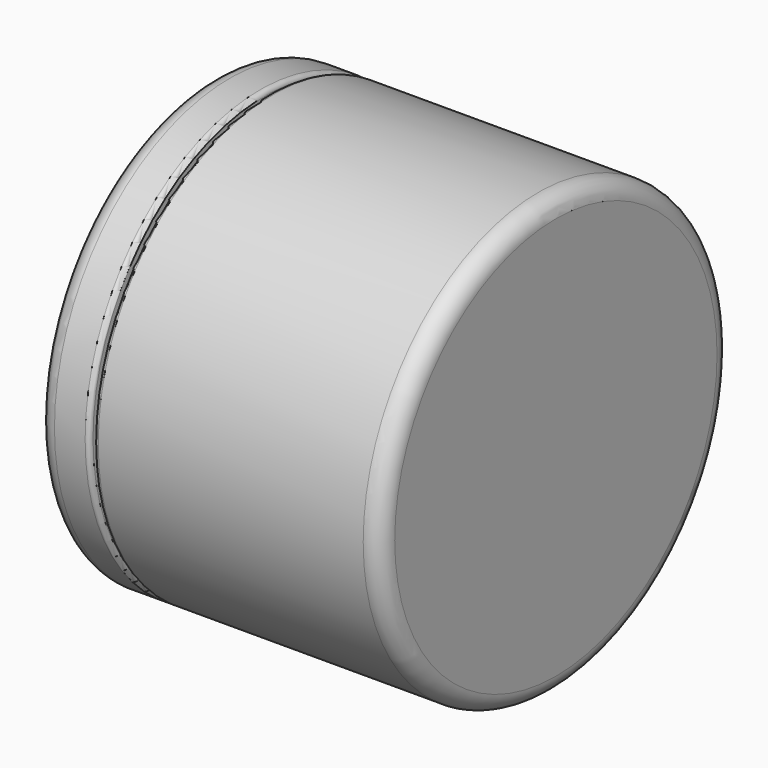
from build123d import *

# Parameters (mm, degrees)
REVOLUTION_ANGLE = 0
SKETCH001_W      = 20
SKETCH001_H      = 42


with BuildPart() as front:
    # Sketch → Revolution (revolve)
    with BuildSketch(Plane.XY):
        with BuildLine():
            ThreePointArc((8, -38), (4, -34), (0, -38))
            Line((0, -38), (0, -46))
            ThreePointArc((0, -46), (1.171573, -48.828427), (4, -50))
            Line((4, -50), (11, -50))
            ThreePointArc((11, -50), (11.707107, -49.707107), (12, -49))
            Line((12, -49), (12, -46))
            Line((20, -46), (12, -46))
            Line((20, -43), (20, -46))
            ThreePointArc((20, -43), (19.707107, -42.292893), (19, -42))
            Line((9, -42), (19, -42))
            Line((8, -43), (9, -42))
            Line((7, -42), (8, -43))
            Line((8, -41), (7, -42))
            Line((8, -38), (8, -41))
        make_face()
    revolve(axis=Axis((0, 0, 0), (1, 0, 0)), revolution_arc=REVOLUTION_ANGLE)


with BuildPart() as window:
    # Sketch001 → Revolution001 (revolve)
    with BuildSketch(Plane.XY):
        with Locations((18.5, -21)):
            Rectangle(SKETCH001_W, SKETCH001_H)
    revolve(axis=Axis((0, 0, 0), (1, 0, 0)))


with BuildPart() as back:
    # Sketch002 → Revolution002 (revolve)
    with BuildSketch(Plane.XY):
        with BuildLine():
            Line((14, -50), (74.5, -50))
            ThreePointArc((74.5, -50), (77.328427, -48.828427), (78.5, -46))
            Line((78.5, -46), (78.5, 0))
            Line((78.5, 0), (70.5, 0))
            Line((70.5, 0), (70.5, -38))
            Line((70.5, -38), (30, -38))
            ThreePointArc((30, -38), (29.292893, -38.292893), (29, -39))
            Line((29, -39), (29, -41))
            Line((29, -41), (30, -42))
            Line((30, -42), (29, -43))
            Line((28, -42), (29, -43))
            Line((22, -42), (28, -42))
            ThreePointArc((22, -42), (21.292893, -42.292893), (21, -43))
            Line((21, -46), (21, -43))
            Line((21, -46), (13, -46))
            Line((13, -46), (13, -49))
            ThreePointArc((13, -49), (13.292893, -49.707107), (14, -50))
        make_face()
    revolve(axis=Axis((0, 0, 0), (1, 0, 0)))


with BuildPart() as body003:
    # Sketch003 → Revolution003 (revolve)
    with BuildSketch(Plane.XY):
        Polygon((30.4, 0), (30.4, -27.94), (32, -27.94), (32, -26.94), (70, -26.94), (70, -10.94), (32, -10.94), (32, 0), align=None)
    revolve(axis=Axis((0, 0, 0), (1, 0, 0)))


solid = Compound([front.part, window.part, back.part, body003.part])
